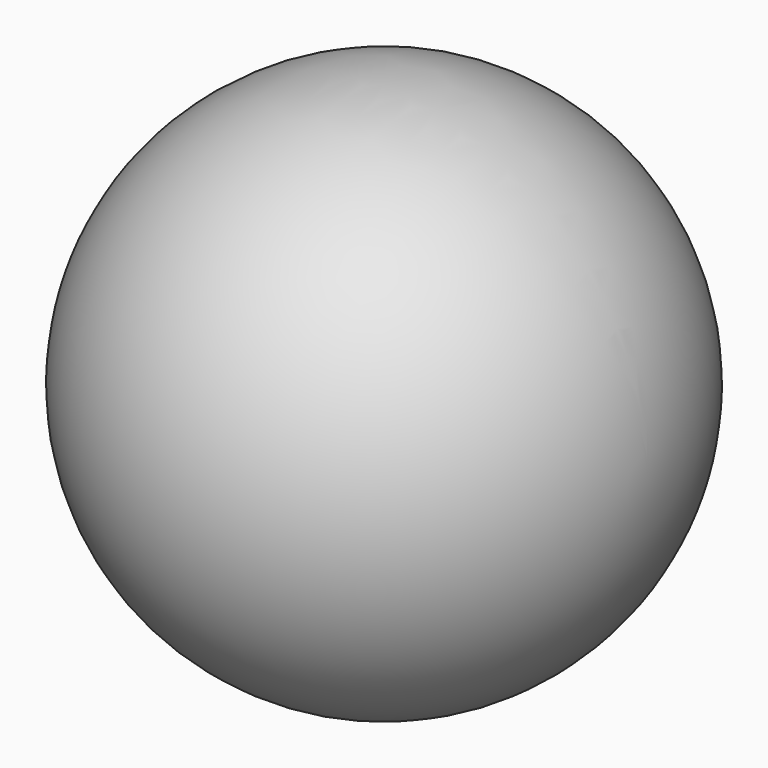
from build123d import *

# Parameters (mm, degrees)
F2_T = -2.54


with BuildPart() as f1:
    # F0 (on Front) → F1 (revolve)
    with BuildSketch(Plane.XZ):
        with BuildLine():
            ThreePointArc((56.4078028576, 0), (0, 56.4078028576), (-56.4078028576, 0))
            Line((-56.4078028576, 0), (56.4078028576, 0))
        make_face()
    revolve(axis=Axis((-10.1974718273, 0, 0), (1, 0, 0)))

    # F2 (hollow: no face is removed)
    offset(amount=F2_T, mode=Mode.SUBTRACT)


solid = f1.part
